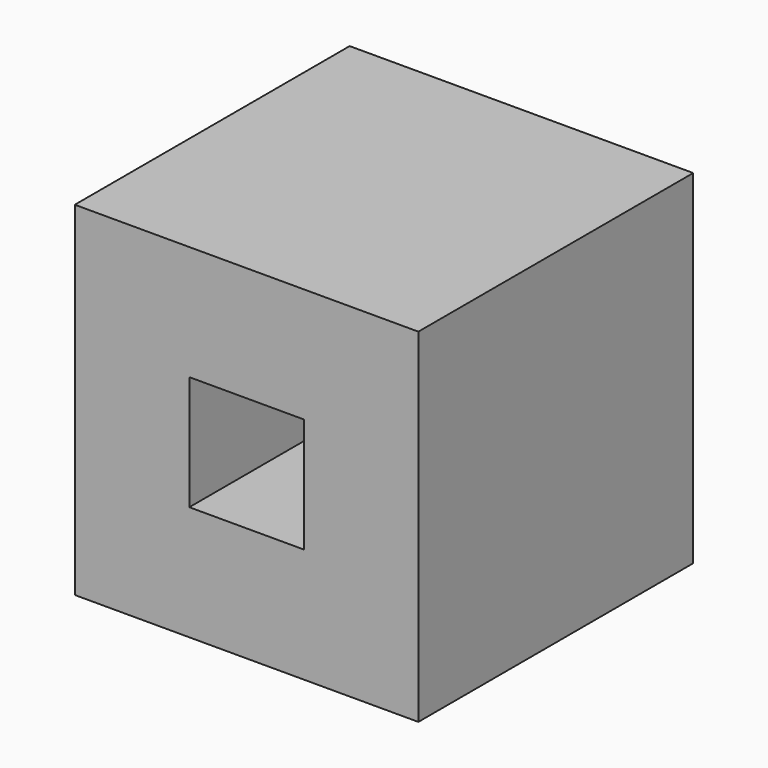
from build123d import *

# Parameters (mm, degrees)
F0_W     = 76.2
F0_H     = 76.2
F1_DEPTH = 76.2
F2_W     = 25.4
F2_H     = 25.4
F3_DEPTH = 25.4
F4_W     = 25.4
F4_H     = 25.4
F5_DEPTH = 50.8


with BuildPart() as f1:
    # F0 (on Front) → F1 (new body)
    with BuildSketch(Plane.XZ):
        Rectangle(F0_W, F0_H)
    extrude(amount=F1_DEPTH)

    # F2 (on face) → F3 (cut)
    with BuildSketch(Plane(origin=(0, 0, 0), x_dir=(-1, 0, 0), z_dir=(0, 1, 0))):
        Rectangle(F2_W, F2_H)
    extrude(amount=-F3_DEPTH, mode=Mode.SUBTRACT)

    # F4 (on face) → F5 (cut)
    with BuildSketch(Plane.XZ.offset(76.2)):
        Rectangle(F4_W, F4_H)
    extrude(amount=-F5_DEPTH, mode=Mode.SUBTRACT)


solid = f1.part
